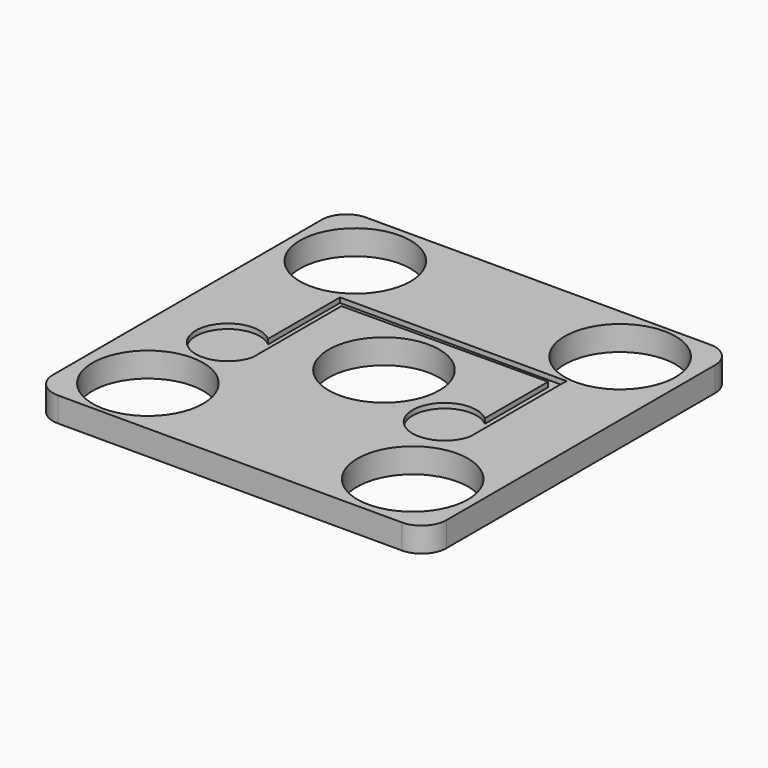
from build123d import *

# Parameters (mm, degrees)
F0_R     = 11.2
F1_DEPTH = 5
F2_DEPTH = 4


with BuildPart() as f1:
    # F0 (on Top) → F1 (new body)
    with BuildSketch(Plane.XY):
        with BuildLine():
            ThreePointArc((39.809972, 33.97921), (38.345506, 37.514744), (34.809972, 38.97921))
            Line((34.809972, 38.97921), (-34.809972, 38.97921))
            ThreePointArc((-34.809972, 38.97921), (-38.345506, 37.514744), (-39.809972, 33.97921))
            Line((-39.809972, 33.97921), (-39.809972, -33.97921))
            ThreePointArc((-39.809972, -33.97921), (-38.345506, -37.514744), (-34.809972, -38.97921))
            Line((-34.809972, -38.97921), (34.809972, -38.97921))
            ThreePointArc((34.809972, -38.97921), (38.345506, -37.514744), (39.809972, -33.97921))
            Line((39.809972, -33.97921), (39.809972, 33.97921))
        make_face()
        with Locations((-26.299996, -26.854837)):
            Circle(F0_R, mode=Mode.SUBTRACT)
        with Locations((26.854837, -26.299996)):
            Circle(F0_R, mode=Mode.SUBTRACT)
        with BuildLine():
            Line((22.770339, -2.949941), (22.770339, 13.050059))
            Line((22.770339, 13.050059), (-18.912846, 12.862151))
            Line((-18.912846, 12.862151), (-18.909988, 12.22825))
            Line((-18.909988, 12.22825), (-18.909988, -6.512253))
            Line((-18.909988, -6.512253), (-18.909988, -9.554869))
            ThreePointArc((-18.909988, -9.554869), (-31.357005, -10.003512), (-20.958988, -3.147073))
            Line((-20.958988, -3.147073), (-20.958988, 12.852927))
            Line((-20.958988, 12.852927), (-20.958988, 15.065802))
            Line((-20.958988, 15.065802), (22.80624, 15.065802))
            Line((22.80624, 15.065802), (24.906237, 15.065801))
            Line((24.906237, 15.065801), (24.870336, 13.050058))
            Line((24.870336, 13.050058), (24.870336, -9.260231))
            ThreePointArc((24.870336, -9.260231), (12.419565, -9.899141), (22.770339, -2.949941))
        make_face(mode=Mode.SUBTRACT)
        with Locations((-26.854837, 26.299996)):
            Circle(F0_R, mode=Mode.SUBTRACT)
        Circle(F0_R, mode=Mode.SUBTRACT)
        with Locations((26.299996, 26.854837)):
            Circle(F0_R, mode=Mode.SUBTRACT)
    extrude(amount=F1_DEPTH)

    # F0 (on Top) → F2 (join)
    with BuildSketch(Plane.XY):
        with BuildLine():
            Line((-18.912846, 12.862151), (22.770339, 13.050059))
            Line((22.770339, 13.050059), (22.770339, -2.949941))
            ThreePointArc((22.770339, -2.949941), (12.419565, -9.899141), (24.870336, -9.260231))
            Line((24.870336, -9.260231), (24.870336, 13.050058))
            Line((24.870336, 13.050058), (24.906237, 15.065801))
            Line((24.906237, 15.065801), (22.80624, 15.065802))
            Line((22.80624, 15.065802), (-20.958988, 15.065802))
            Line((-20.958988, 15.065802), (-20.958988, 12.852927))
            Line((-20.958988, 12.852927), (-20.958988, -3.147073))
            ThreePointArc((-20.958988, -3.147073), (-31.357005, -10.003512), (-18.909988, -9.554869))
            Line((-18.909988, -9.554869), (-18.909988, -6.512253))
            Line((-18.909988, -6.512253), (-18.909988, 12.22825))
            Line((-18.909988, 12.22825), (-18.912846, 12.862151))
        make_face()
    extrude(amount=F2_DEPTH)


solid = f1.part
